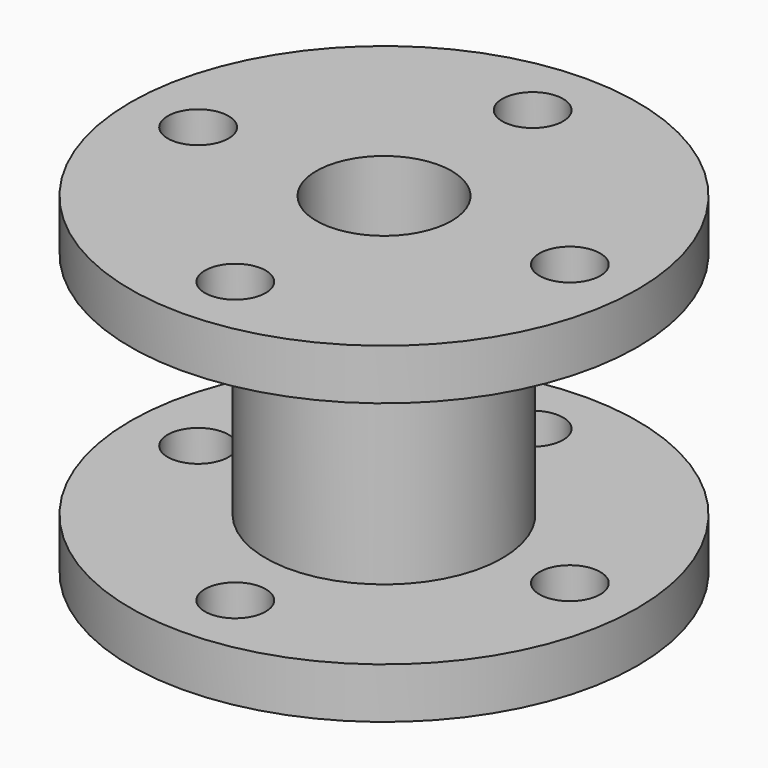
from build123d import *

# Parameters (mm, degrees)
F0_R     = 75
F0_R_2   = 9
F0_R_3   = 20
F1_DEPTH = 15
F2_R     = 35
F2_R_2   = 20
F3_DEPTH = 68
F4_R     = 75
F4_R_2   = 9
F4_R_3   = 20
F5_DEPTH = 15


with BuildPart() as f1:
    # F0 (on Top) → F1 (new body)
    with BuildSketch(Plane.XY):
        Circle(F0_R)
        with Locations((0, -55)):
            Circle(F0_R_2, mode=Mode.SUBTRACT)
        with Locations((-55, 0)):
            Circle(F0_R_2, mode=Mode.SUBTRACT)
        Circle(F0_R_3, mode=Mode.SUBTRACT)
        with Locations((55, 0)):
            Circle(F0_R_2, mode=Mode.SUBTRACT)
        with Locations((0, 55)):
            Circle(F0_R_2, mode=Mode.SUBTRACT)
    extrude(amount=F1_DEPTH)

    # F2 (on face) → F3 (join)
    with BuildSketch(Plane.XY.offset(15)):
        Circle(F2_R)
        Circle(F2_R_2, mode=Mode.SUBTRACT)
    extrude(amount=F3_DEPTH)

    # F4 (on face) → F5 (join)
    with BuildSketch(Plane.XY.offset(83)):
        Circle(F4_R)
        with Locations((0, -55)):
            Circle(F4_R_2, mode=Mode.SUBTRACT)
        with Locations((-55, 0)):
            Circle(F4_R_2, mode=Mode.SUBTRACT)
        Circle(F4_R_3, mode=Mode.SUBTRACT)
        with Locations((55, 0)):
            Circle(F4_R_2, mode=Mode.SUBTRACT)
        with Locations((0, 55)):
            Circle(F4_R_2, mode=Mode.SUBTRACT)
    extrude(amount=F5_DEPTH)


solid = f1.part
